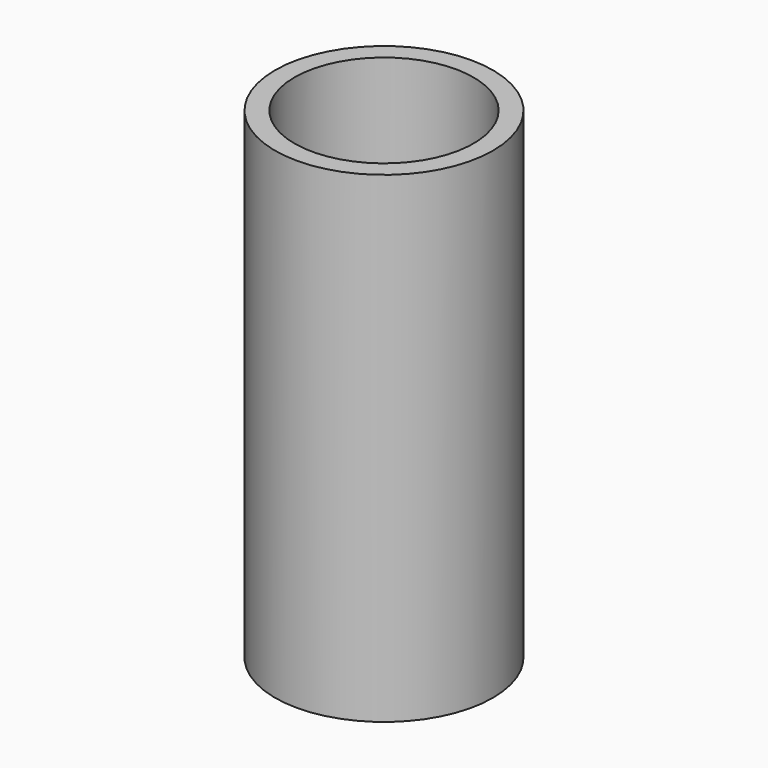
from build123d import *

# Parameters (mm, degrees)
F2_T = -5


with BuildPart() as f1:
    # F0 (on Front) → F1 (revolve)
    with BuildSketch(Plane.XZ):
        Polygon((0, 61.359137), (-28.067812, 61.359137), (-28.067812, -62.718183), (0, -62.718183), (0, 0), align=None)
    revolve(axis=Axis((0, 0, -31.359091), (0, 0, -1)))

    # F2
    f2_openings = [f1.faces().sort_by_distance(p)[0] for p in [
        (0, 0, 61.359137),
    ]]
    offset(amount=F2_T, openings=f2_openings)


solid = f1.part
